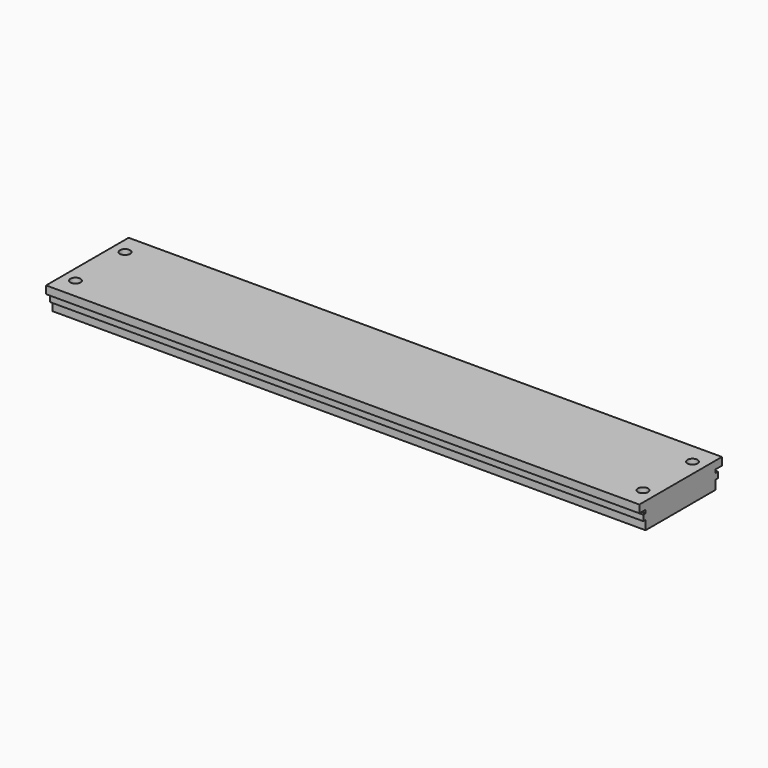
from build123d import *

# Parameters (mm, degrees)
F0_W     = 292.1
F0_H     = 50.8
F1_DEPTH = 12.7
F6_D     = 4.9784
F7_W     = 2.413
F7_H     = 2.8018399096
F8_DEPTH = 292.1


with BuildPart() as f1:
    # F0 (on Top) → F1 (new body)
    with BuildSketch(Plane.XY):
        with Locations((146.05, 25.4)):
            Rectangle(F0_W, F0_H)
    extrude(amount=-F1_DEPTH)

    # F6 (through all)
    with Locations(Plane.XY):
        with Locations((6.35, 40.64), (285.75, 40.64), (285.75, 10.16), (6.35, 10.16)):
            Hole(F6_D / 2)

    # F7 (on face) → F8 (cut, through all)
    with BuildSketch(Plane.YZ.offset(292.1)):
        Polygon((3.81, -3.81), (0, -3.81), (0, -5.4102), (2.413, -5.4102), (3.81, -5.4102), align=None)
        with Locations((1.2065, -6.8111199548)):
            Rectangle(F7_W, F7_H)
        Polygon((2.413, -8.2120399096), (0, -8.2120399096), (0, -12.7), (3.81, -12.7), (3.81, -8.2120399096), align=None)
        Polygon((50.8, -5.4102), (50.8, -3.81), (46.99, -3.81), (46.99, -5.4102), (48.387, -5.4102), align=None)
        with Locations((49.5935, -6.8111199548)):
            Rectangle(F7_W, F7_H)
        Polygon((46.99, -8.2120399096), (46.99, -12.7), (50.8, -12.7), (50.8, -8.2120399096), (48.387, -8.2120399096), align=None)
    extrude(amount=-F8_DEPTH, mode=Mode.SUBTRACT)


solid = f1.part
